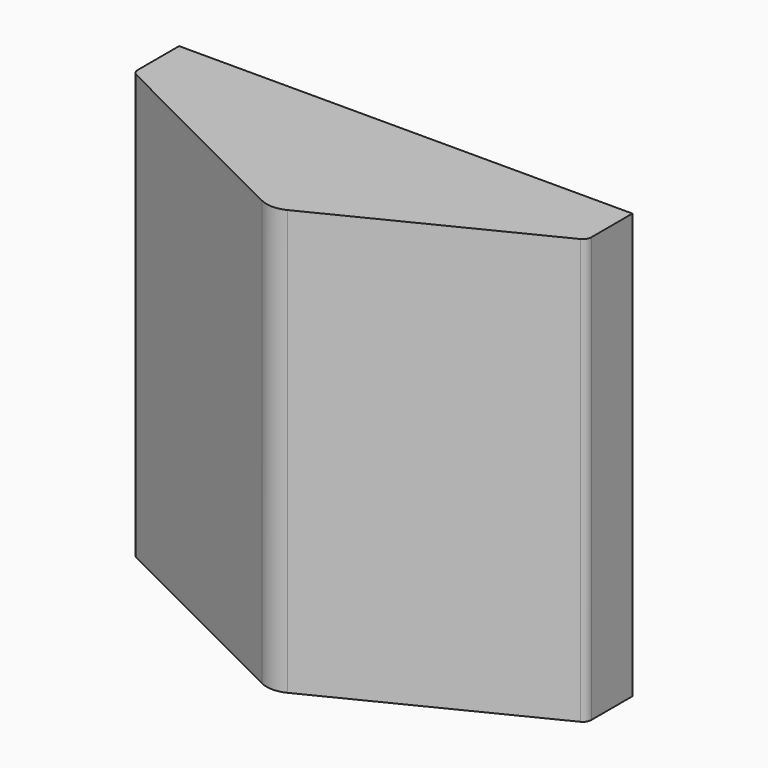
from build123d import *

# Parameters (mm, degrees)
F1_DEPTH = 15


with BuildPart() as f1:
    # F0 (on Top) → F1 (new body)
    with BuildSketch(Plane.XY):
        with BuildLine():
            Line((8, 0), (-8, 0))
            Line((-8, 0), (-8, -1.81459))
            ThreePointArc((-8, -1.81459), (-7.955195, -1.972309), (-7.834164, -2.082918))
            Line((-7.834164, -2.082918), (-0.447214, -5.776393))
            ThreePointArc((-0.447214, -5.776393), (0, -5.881966), (0.447214, -5.776393))
            Line((0.447214, -5.776393), (7.834164, -2.082918))
            ThreePointArc((7.834164, -2.082918), (7.955195, -1.972309), (8, -1.81459))
            Line((8, -1.81459), (8, 0))
        make_face()
    extrude(amount=-F1_DEPTH)


solid = f1.part
